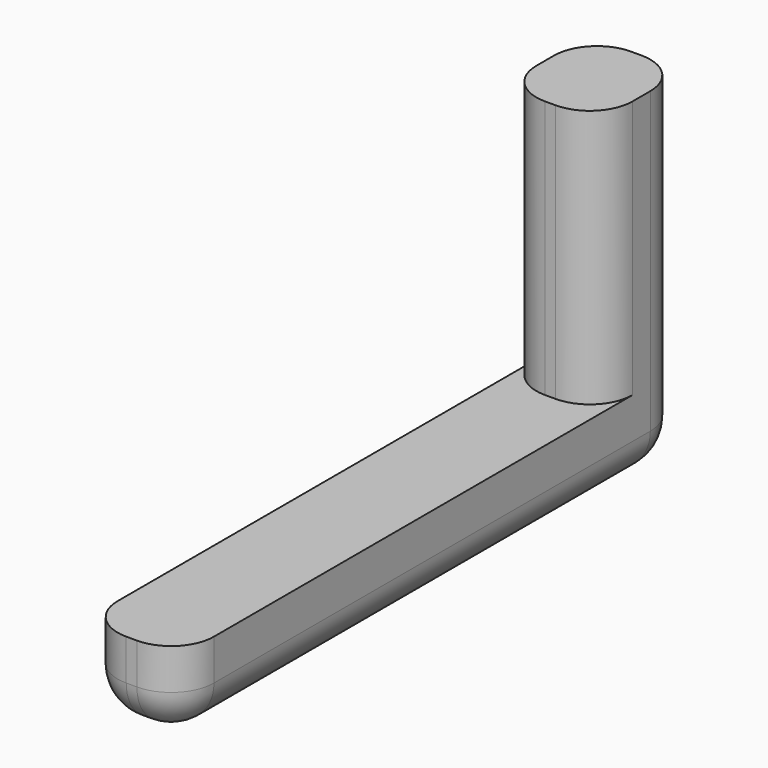
from build123d import *

# Parameters (mm, degrees)
F1_DEPTH = 11.43
F2_R     = 5.08


with BuildPart() as f1:
    # F0 (on Right) → F1 (new body)
    with BuildSketch(Plane.YZ):
        Polygon((0, 14.58829), (-62.113028, 14.58829), (-62.113028, 4.662237), (12.783553, 4.662237), (12.783553, 45.268815), (0, 45.268815), align=None)
    extrude(amount=F1_DEPTH)

    # F2
    f2_edges = [f1.edges().sort_by_distance(p)[0] for p in [
        (11.43, 0, 29.928552),
        (0, 0, 29.928552),
        (11.43, 12.783553, 24.965526),
        (11.43, -24.664737, 4.662237),
        (0, -24.664737, 4.662237),
        (0, 12.783553, 24.965526),
        (0, -62.113028, 9.625264),
        (11.43, -62.113028, 9.625264),
        (5.715, -62.113028, 4.662237),
        (5.715, 12.783553, 4.662237),
    ]]
    fillet(f2_edges, radius=F2_R)


solid = f1.part
